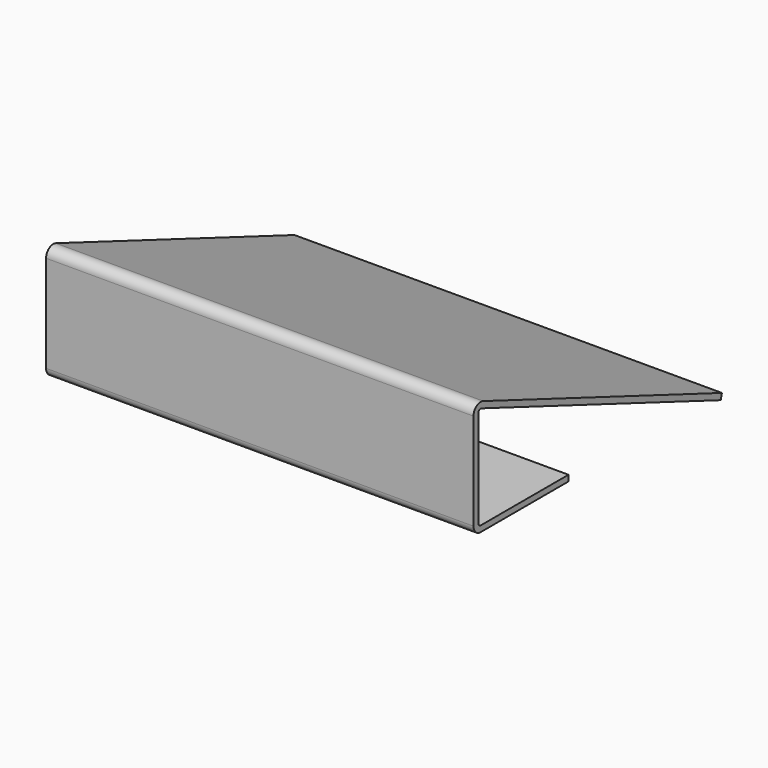
from build123d import *

# Parameters (mm, degrees)
F1_DEPTH      = 228.6
F1_DEPTH_BACK = 228.6


with BuildPart() as f1:
    # F0 (on Right) → F1 (new body, two sides)
    with BuildSketch(Plane.YZ) as f1_sk:
        with BuildLine():
            Line((-117.475, 0), (0, 0))
            Line((0, 0), (0, 6.35))
            Line((0, 6.35), (-117.475, 6.35))
            ThreePointArc((-117.475, 6.35), (-119.720064, 7.279936), (-120.65, 9.525))
            Line((-120.65, 9.525), (-120.65, 113.160496))
            ThreePointArc((-120.65, 113.160496), (-119.275056, 115.775916), (-116.341071, 116.126104))
            Line((-116.341071, 116.126104), (203.596992, -6.205272))
            Line((203.596992, -6.205272), (205.148099, 0))
            Line((205.148099, 0), (-114.073214, 122.05732))
            ThreePointArc((-114.073214, 122.05732), (-122.875167, 121.006757), (-127, 113.160496))
            Line((-127, 113.160496), (-127, 9.525))
            ThreePointArc((-127, 9.525), (-124.210192, 2.789808), (-117.475, 0))
        make_face()
    extrude(amount=F1_DEPTH)
    extrude(f1_sk.sketch, amount=-F1_DEPTH_BACK)


solid = f1.part
